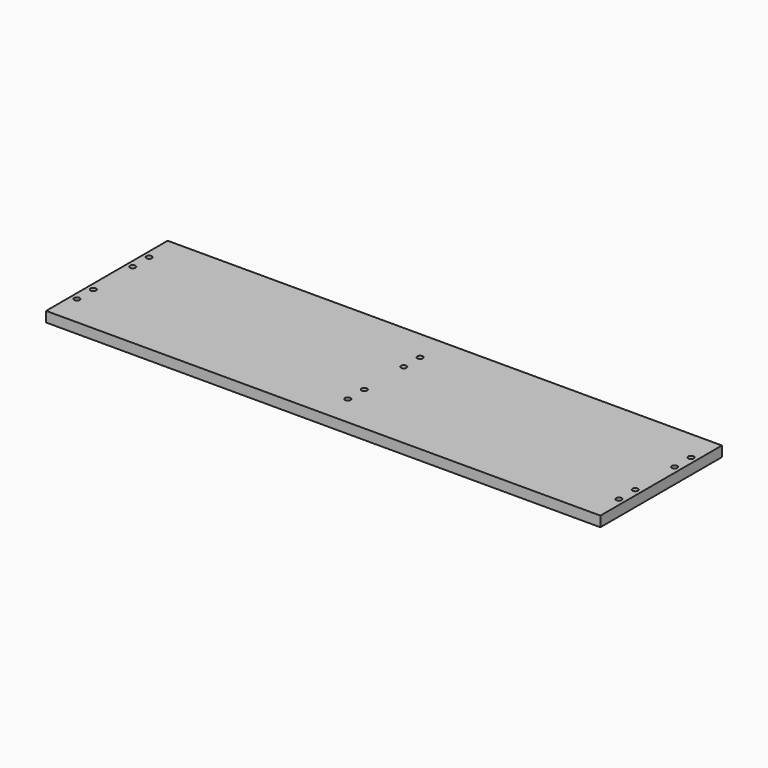
from build123d import *

# Parameters (mm, degrees)
F0_W           = 1350
F0_H           = 370
F1_DEPTH       = 25
F3_D           = 13.5
F3_CBORE_D     = 19.25
F3_CBORE_DEPTH = 12


with BuildPart() as f1:
    # F0 (on Top) → F1 (new body)
    with BuildSketch(Plane.XY):
        Rectangle(F0_W, F0_H)
    extrude(amount=F1_DEPTH)

    # F3 (through all)
    with Locations(Plane(origin=(0, 0, 0), x_dir=(1, 0, 0), z_dir=(0, 0, -1))):
        with Locations((-660, 110), (-660, 60), (0, 110), (0, 60), (660, 60), (660, 110), (660, -110), (660, -60), (0, -60), (0, -110), (-660, -110), (-660, -60)):
            CounterBoreHole(F3_D / 2, F3_CBORE_D / 2, F3_CBORE_DEPTH)


solid = f1.part
